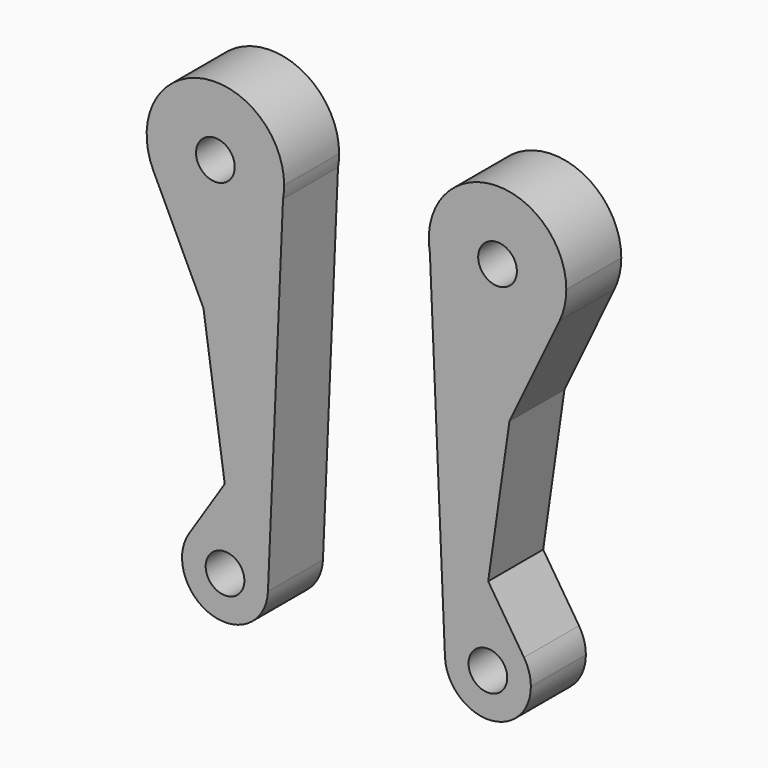
from build123d import *

# Parameters (mm, degrees)
F0_R     = 7.1501
F1_DEPTH = 25.4


with BuildPart() as f1:
    # F0 (on Front) → F1 (new body)
    with BuildSketch(Plane.XZ):
        with BuildLine():
            ThreePointArc((-27.133642, 73.036358), (-48.767964, 52.438354), (-75.034717, 66.664362))
            Line((-75.034717, 66.664362), (-56.513775, 27.909342))
            Line((-56.513775, 27.909342), (-48.662199, -26.656873))
            Line((-48.662199, -26.656873), (-61.888065, -47.114602))
            ThreePointArc((-61.888065, -47.114602), (-44.063334, -40.507562), (-32.681475, -55.733439))
            ThreePointArc((-32.681475, -55.733439), (-32.685135, -56.074274), (-32.696111, -56.414952))
            Line((-32.696111, -56.414952), (-27.133642, 73.036358))
        make_face()
        with BuildLine():
            ThreePointArc((-27.133642, 73.036358), (-26.821578, 75.317016), (-26.717271, 77.616561))
            ThreePointArc((-26.717271, 77.616561), (-57.73229, 102.388149), (-75.034717, 66.664362))
            ThreePointArc((-75.034717, 66.664362), (-48.767964, 52.438354), (-27.133642, 73.036358))
        make_face()
        with Locations((-52.117271, 77.616561)):
            Circle(F0_R, mode=Mode.SUBTRACT)
        with BuildLine():
            ThreePointArc((-61.888065, -47.114602), (-53.37548, -70.859338), (-32.696111, -56.414952))
            ThreePointArc((-32.696111, -56.414952), (-32.685135, -56.074274), (-32.681475, -55.733439))
            ThreePointArc((-32.681475, -55.733439), (-44.063334, -40.507562), (-61.888065, -47.114602))
        make_face()
        with Locations((-48.556475, -55.733439)):
            Circle(F0_R, mode=Mode.SUBTRACT)
        with BuildLine():
            ThreePointArc((61.888065, -47.114602), (43.737471, -40.607539), (32.696111, -56.414952))
            ThreePointArc((32.696111, -56.414952), (48.897311, -71.604779), (64.431475, -55.733439))
            ThreePointArc((64.431475, -55.733439), (63.782352, -51.240297), (61.888065, -47.114602))
        make_face()
        with Locations((48.556475, -55.733439)):
            Circle(F0_R, mode=Mode.SUBTRACT)
        with BuildLine():
            Line((56.513775, 27.909342), (75.034717, 66.664362))
            ThreePointArc((75.034717, 66.664362), (48.767964, 52.438354), (27.133642, 73.036358))
            Line((27.133642, 73.036358), (32.696111, -56.414952))
            ThreePointArc((32.696111, -56.414952), (43.737471, -40.607539), (61.888065, -47.114602))
            Line((61.888065, -47.114602), (48.662199, -26.656873))
            Line((48.662199, -26.656873), (56.513775, 27.909342))
        make_face()
        with BuildLine():
            ThreePointArc((27.133642, 73.036358), (48.767964, 52.438354), (75.034717, 66.664362))
            ThreePointArc((75.034717, 66.664362), (76.888859, 72.001543), (77.517271, 77.616561))
            ThreePointArc((77.517271, 77.616561), (49.817726, 102.912255), (27.133642, 73.036358))
        make_face()
        with Locations((52.117271, 77.616561)):
            Circle(F0_R, mode=Mode.SUBTRACT)
    extrude(amount=F1_DEPTH)


solid = f1.part
